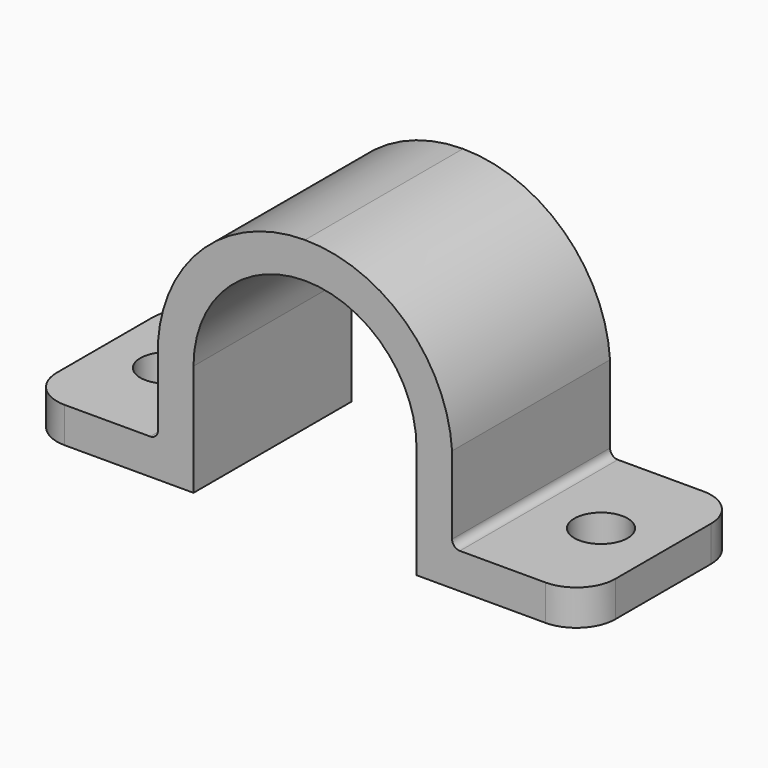
from build123d import *

# Parameters (mm, degrees)
F2_DEPTH = 25.4
F3_R     = 1
F4_R     = 5
F5_R     = 3.429
F6_DEPTH = 4.573


with BuildPart() as f2:
    # F1 (on Front) → F2 (new body)
    with BuildSketch(Plane.XZ):
        with BuildLine():
            ThreePointArc((0, 28.7), (10.14698231, 24.49698231), (14.35, 14.35))
            Line((14.35, 14.35), (14.35, 0))
            Line((14.35, 0), (35.922, 0))
            Line((35.922, 0), (35.922, 4.572))
            Line((35.922, 4.572), (18.922, 4.572))
            Line((18.922, 4.572), (18.922, 15.572))
            ThreePointArc((18.922, 15.572), (12.9685102335, 28.1830441452), (0, 33.3114178795))
            ThreePointArc((0, 33.3114178795), (-12.9685102335, 28.1830441452), (-18.922, 15.572))
            Line((-18.922, 15.572), (-18.922, 4.572))
            Line((-18.922, 4.572), (-35.922, 4.572))
            Line((-35.922, 4.572), (-35.922, 0))
            Line((-35.922, 0), (-14.35, 0))
            Line((-14.35, 0), (-14.35, 14.35))
            ThreePointArc((-14.35, 14.35), (-10.14698231, 24.49698231), (0, 28.7))
        make_face()
    extrude(amount=F2_DEPTH)

    # F3
    f3_edges = [f2.edges().sort_by_distance(p)[0] for p in [
        (-18.922, -12.7, 4.572),
        (18.922, -12.7, 4.572),
    ]]
    fillet(f3_edges, radius=F3_R)

    # F4
    f4_edges = [f2.edges().sort_by_distance(p)[0] for p in [
        (-35.922, -25.4, 2.286),
        (35.922, -25.4, 2.286),
        (35.922, 0, 2.286),
        (-35.922, 0, 2.286),
    ]]
    fillet(f4_edges, radius=F4_R)

    # F5 (on face) → F6 (cut, through all)
    with BuildSketch(Plane.XY.offset(4.572)):
        with Locations((-27.922, -12.7)):
            Circle(F5_R)
        with Locations((27.922, -12.7)):
            Circle(F5_R)
    extrude(amount=-F6_DEPTH, mode=Mode.SUBTRACT)


solid = f2.part
